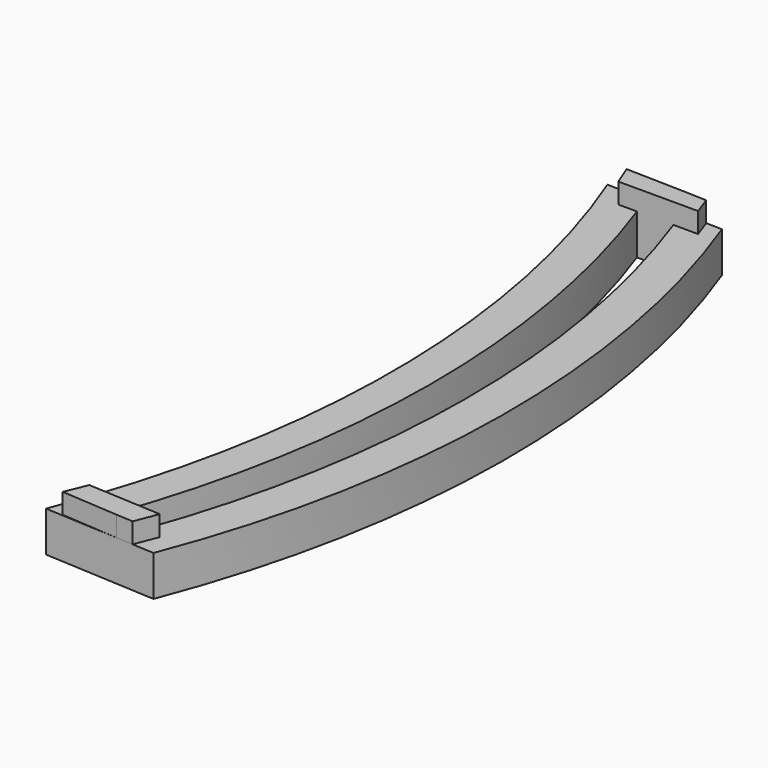
from build123d import *

# Parameters (mm, degrees)
F1_DEPTH = 5
F3_DEPTH = 2.5
F5_DEPTH = 25


with BuildPart() as f1:
    # F0 (on Top) → F1 (new body)
    with BuildSketch(Plane.XY):
        with BuildLine():
            ThreePointArc((-9.771052, 43.610957), (-1.575845, 0.293702), (-9.771052, -43.023552))
            Line((-9.771052, -43.023552), (4.098068, -43.7835))
            ThreePointArc((4.098068, -43.7835), (12.388804, -0.328701), (4.668032, 43.230977))
            Line((4.668032, 43.230977), (-9.771052, 43.610957))
        make_face()
    extrude(amount=F1_DEPTH)

    # F2 (on face) → F3 (join)
    with BuildSketch(Plane.XY.offset(5)):
        with BuildLine():
            ThreePointArc((-7.36353, 43.547601), (-6.846603, 42.282316), (-6.345194, 41.010802))
            Line((-6.345194, 41.010802), (3.505516, 41.010802))
            Line((3.505516, 41.010802), (2.697484, 43.258171))
            Line((2.697484, 43.258171), (0.835687, 43.33183))
            Line((0.835687, 43.33183), (-7.36353, 43.547601))
        make_face()
        with BuildLine():
            ThreePointArc((-6.597064, -40.326348), (-7.1427, -41.683608), (-7.70606, -43.033606))
            Line((-7.70606, -43.033606), (-0.661875, -43.522683))
            Line((-0.661875, -43.522683), (1.406391, -43.636012))
            Line((1.406391, -43.636012), (2.504335, -40.825053))
            Line((2.504335, -40.825053), (-6.597064, -40.326348))
        make_face()
    extrude(amount=F3_DEPTH)

    # F4 (on face) → F5 (cut)
    with BuildSketch(Plane.XY.offset(5)):
        with BuildLine():
            ThreePointArc((-4.045194, 41.010802), (2.951389, 0.25698), (-4.300509, -40.452186))
            Line((-4.300509, -40.452186), (0.192751, -40.698391))
            ThreePointArc((0.192751, -40.698391), (7.492519, 0.133214), (0.454806, 41.010802))
            Line((0.454806, 41.010802), (-4.045194, 41.010802))
        make_face()
    extrude(amount=-F5_DEPTH, mode=Mode.SUBTRACT)


solid = f1.part
